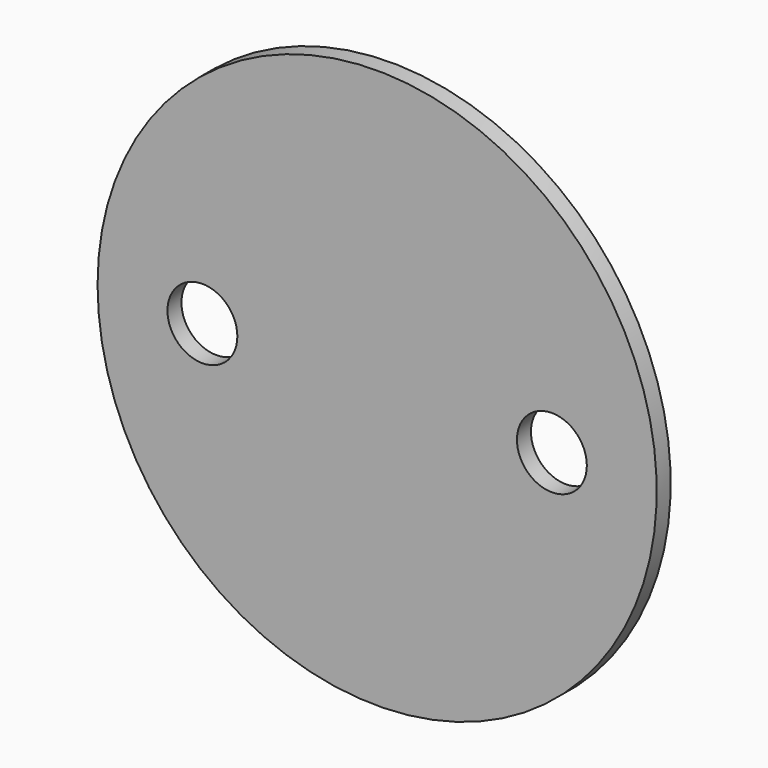
from build123d import *

# Parameters (mm, degrees)
F1_DEPTH = 3.175


with BuildPart() as f1:
    # F0 (on Front) → F1 (new body)
    with BuildSketch(Plane.XZ):
        with BuildLine():
            Line((38.1, 0), (50.8, 0))
            ThreePointArc((50.8, 0), (0, 50.8), (-50.8, 0))
            Line((-50.8, 0), (-38.1, 0))
            ThreePointArc((-38.1, 0), (-31.75, 6.35), (-25.4, 0))
            Line((-25.4, 0), (25.4, 0))
            ThreePointArc((25.4, 0), (31.75, 6.35), (38.1, 0))
        make_face()
        with BuildLine():
            ThreePointArc((-50.8, 0), (0, -50.8), (50.8, 0))
            Line((50.8, 0), (38.1, 0))
            ThreePointArc((38.1, 0), (31.75, -6.35), (25.4, 0))
            Line((25.4, 0), (-25.4, 0))
            ThreePointArc((-25.4, 0), (-31.75, -6.35), (-38.1, 0))
            Line((-38.1, 0), (-50.8, 0))
        make_face()
    extrude(amount=F1_DEPTH)


solid = f1.part
